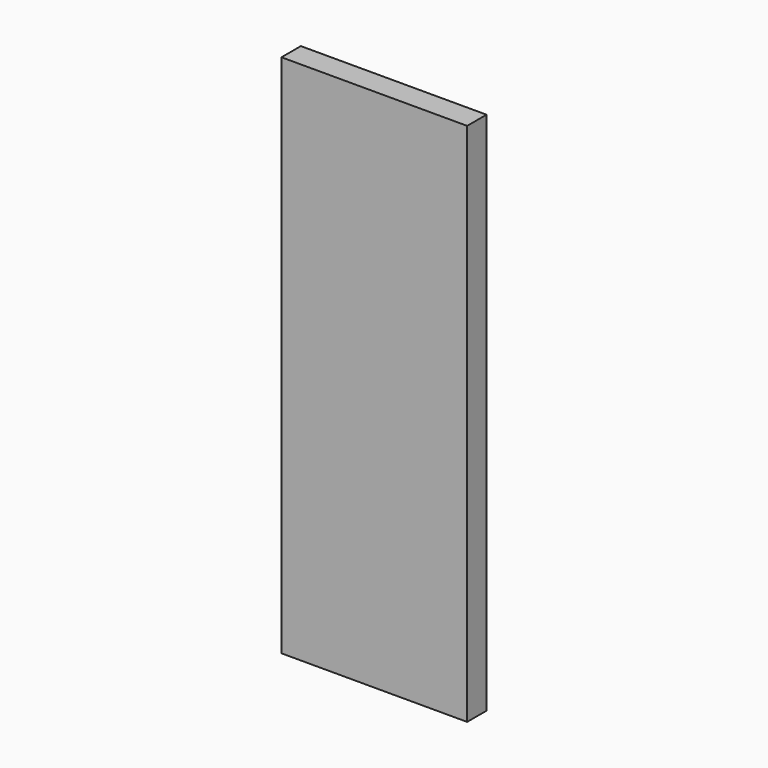
from build123d import *

# Parameters (mm, degrees)
F0_W      = 23
F0_H      = 17.5
F1_DEPTH  = 3
F2_W      = 23
F2_H      = 65
F3_DEPTH  = 3
F4_R      = 1.8275
F5_DEPTH  = 25
F4_R_2    = 1.5
F1_FACE_W = 23
F1_FACE_H = 65
F1_FACE_R = 1.8275
F6_DEPTH  = 25
F7_DEPTH  = 25


with BuildPart() as f1:
    # F0 (on Front) → F1 (new body)
    with BuildSketch(Plane.XZ):
        Polygon((-41.005974159, 32.5), (-60.6771636009, 32.5), (-60.6771636009, -32.5), (-40.7113991678, -32.5), (-14.3495606634, -32.5), (-14.3495606634, 32.5), align=None)
        Polygon((-14.3495606634, 50), (-41.005974159, 32.5), (-14.3495606634, 32.5), align=None)
        with Locations((-2.8495606634, 41.25)):
            Rectangle(F0_W, F0_H)
        Polygon((-14.3495606634, -32.5), (-40.7113991678, -32.5), (-14.3495606634, -50), align=None)
        Polygon((8.6504393366, 50), (8.6504393366, 32.5), (35.1252928376, 32.5), align=None)
        Polygon((35.1252928376, 32.5), (8.6504393366, 32.5), (8.6504393366, -32.5), (35.1984487024, -32.5), (49.3228363991, -32.5), (49.3228363991, 32.5), align=None)
        with Locations((-2.8495606634, -41.25)):
            Rectangle(F0_W, F0_H)
        Polygon((35.1984487024, -32.5), (8.6504393366, -32.5), (8.6504393366, -50), align=None)
    extrude(amount=F1_DEPTH)

    # F4 (on face) → F5 (cut)
    with BuildSketch(Plane.XZ.offset(3)):
        with Locations((15.1720186695, 41.6146814823)):
            Circle(F4_R)
    extrude(amount=-F5_DEPTH, mode=Mode.SUBTRACT)

    # F4 (on face) + F1_face (on face) → F6 (cut)
    with BuildSketch(Plane.XZ.offset(3)):
        with Locations((-15.8495606634, 41.0366989672)):
            Circle(F4_R_2)
        with Locations((15.1720186695, 41.6146814823)):
            Circle(F4_R)
    with BuildSketch(Plane(origin=(-5.5859827676, -3, 0.0100526631), x_dir=(1, 0, 0), z_dir=(0, -1, 0))):
        Polygon((-8.7635778958, -50.0100526631), (14.2364221042, -50.0100526631), (40.78443147, -32.5100526631), (54.9088191667, -32.5100526631), (54.9088191667, 32.4899473369), (40.7112756052, 32.4899473369), (14.2364221042, 49.9899473369), (-8.7635778958, 49.9899473369), (-35.4199913914, 32.4899473369), (-55.0911808333, 32.4899473369), (-55.0911808333, -32.5100526631), (-35.1254164002, -32.5100526631), align=None)
        with Locations((2.7364221042, -0.0100526631)):
            Rectangle(F1_FACE_W, F1_FACE_H, mode=Mode.SUBTRACT)
        with Locations((20.7580014371, 41.6046288192)):
            Circle(F1_FACE_R, mode=Mode.SUBTRACT)
    extrude(amount=-F6_DEPTH, mode=Mode.SUBTRACT)


with BuildPart() as f3:
    # F2 (on face) → F3 (new body)
    with BuildSketch(Plane.XZ.offset(3)):
        with Locations((-2.8495606634, 0)):
            Rectangle(F2_W, F2_H)
    extrude(amount=F3_DEPTH)

    # F4 (on face) → F7 (cut)
    with BuildSketch(Plane.XZ.offset(3)):
        with Locations((-15.8495606634, 41.0366989672)):
            Circle(F4_R_2)
        with Locations((15.1720186695, 41.6146814823)):
            Circle(F4_R)
    extrude(amount=-F7_DEPTH, mode=Mode.SUBTRACT)


solid = f3.part
